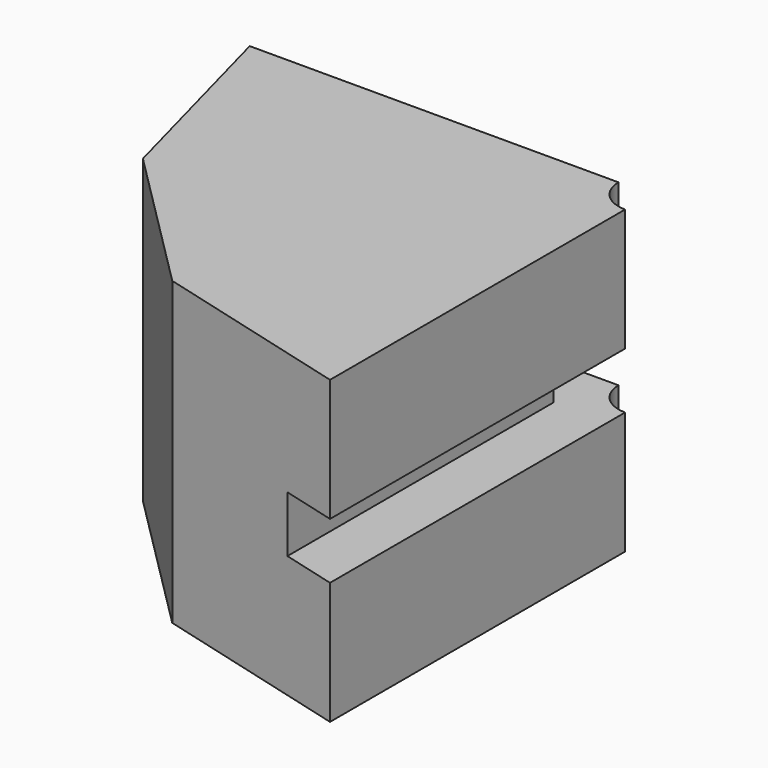
from build123d import *

# Parameters (mm, degrees)
F1_DEPTH = 38.1
F3_W     = 50.8
F3_H     = 7.112
F4_DEPTH = 6.858
F2_W     = 50.8
F2_H     = 7.112
F5_DEPTH = 6.858
F6_R     = 4.1275
F7_DEPTH = 39.624


with BuildPart() as f1:
    # F0 (on Top) → F1 (new body)
    with BuildSketch(Plane.XY):
        Polygon((-25.4, -43.994091), (0, -50.8), (0, 0), (-50.8, 0), (-43.994091, -25.4), align=None)
    extrude(amount=F1_DEPTH)

    # F3 (on face) → F4 (cut)
    with BuildSketch(Plane.YZ):
        with Locations((-25.4, 19.05)):
            Rectangle(F3_W, F3_H)
    extrude(amount=-F4_DEPTH, mode=Mode.SUBTRACT)

    # F2 (on face) → F5 (cut)
    with BuildSketch(Plane(origin=(0, 0, 0), x_dir=(-1, 0, 0), z_dir=(0, 1, 0))):
        with Locations((25.4, 19.05)):
            Rectangle(F2_W, F2_H)
    extrude(amount=-F5_DEPTH, mode=Mode.SUBTRACT)

    # F6 (on face) → F7 (cut)
    with BuildSketch(Plane.XY.offset(38.1)):
        Circle(F6_R)
    extrude(amount=-F7_DEPTH, mode=Mode.SUBTRACT)


solid = f1.part
